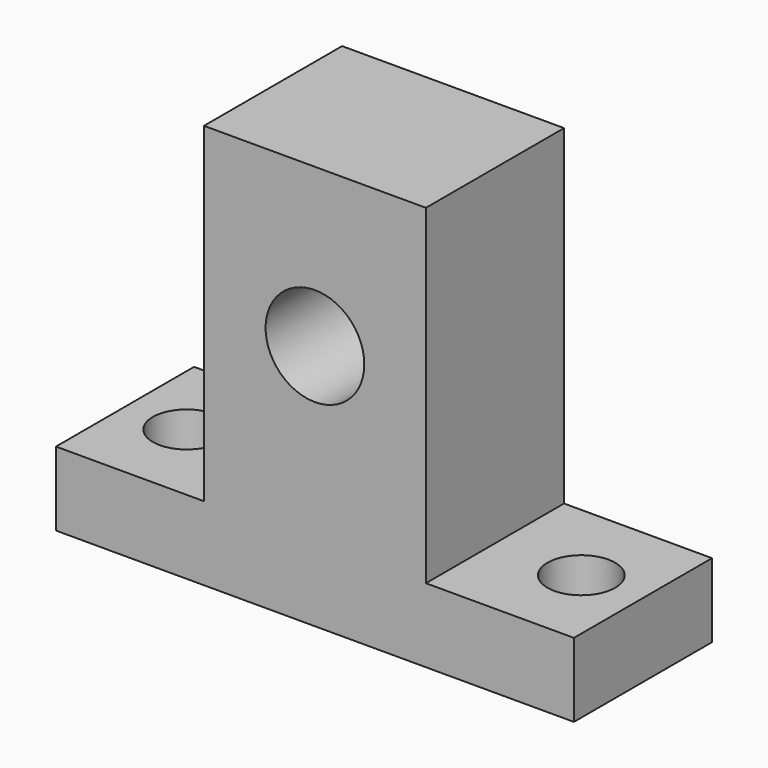
from build123d import *

# Parameters (mm, degrees)
F0_W     = 18
F0_H     = 26.8
F0_R     = 4
F1_DEPTH = 14
F3_D     = 5.5
F3_DEPTH = 13.5125
F3_TIP   = 1.6523667023


with BuildPart() as f1:
    # F0 (on Front) → F1 (new body)
    with BuildSketch(Plane.XZ):
        Rectangle(F0_W, F0_H)
        with Locations((0, 0.6)):
            Circle(F0_R, mode=Mode.SUBTRACT)
        Polygon((21, -13.4), (9, -13.4), (-9, -13.4), (-21, -13.4), (-21, -19.4), (21, -19.4), align=None)
    extrude(amount=F1_DEPTH)

    # F3
    with Locations(Plane(origin=(0, 0, -19.4), x_dir=(1, 0, 0), z_dir=(0, 0, -1))):
        with Locations((-16, 7), (16, 7)):
            Hole(F3_D / 2, depth=F3_DEPTH)
            with Locations((0, 0, -(F3_DEPTH + F3_TIP / 2))):  # 118° drill point
                Cone(0, F3_D / 2, F3_TIP, mode=Mode.SUBTRACT)


solid = f1.part
